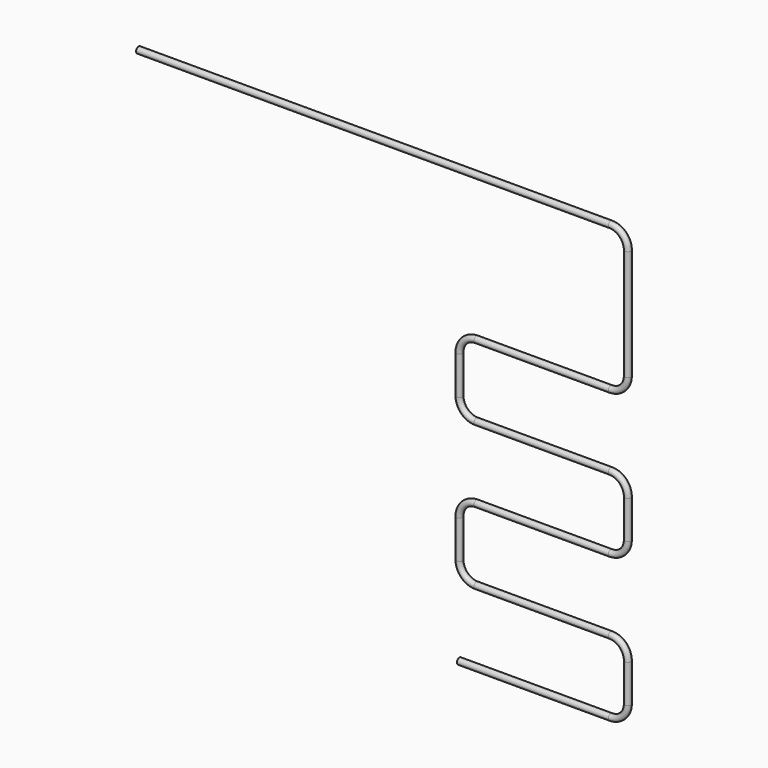
from build123d import *

# Parameters (mm, degrees)
F1_R = 3.675


with BuildPart() as f2:
    # F2: sweep along a path in F0
    with BuildLine(Plane.XZ) as f2_path:
        Line((0, 0), (554, 0))
        ThreePointArc((554, 0), (568.142136, -5.857864), (574, -20))
        Line((574, -20), (574, -150))
        ThreePointArc((574, -150), (568.142136, -164.142136), (554, -170))
        Line((554, -170), (396.4, -170))
        ThreePointArc((396.4, -170), (382.257864, -175.857864), (376.4, -190))
        Line((376.4, -190), (376.4, -234.7))
        ThreePointArc((376.4, -234.7), (382.257864, -248.842136), (396.4, -254.7))
        Line((396.4, -254.7), (554, -254.7))
        ThreePointArc((554, -254.7), (568.142136, -260.557864), (574, -274.7))
        Line((574, -274.7), (574, -319.4))
        ThreePointArc((574, -319.4), (568.142136, -333.542136), (554, -339.4))
        Line((554, -339.4), (396.4, -339.4))
        ThreePointArc((396.4, -339.4), (382.257864, -345.257864), (376.4, -359.4))
        Line((376.4, -359.4), (376.4, -404.1))
        ThreePointArc((376.4, -404.1), (382.257864, -418.242136), (396.4, -424.1))
        Line((396.4, -424.1), (554, -424.1))
        ThreePointArc((554, -424.1), (568.142136, -429.957864), (574, -444.1))
        Line((574, -444.1), (574, -488.8))
        ThreePointArc((574, -488.8), (568.142136, -502.942136), (554, -508.8))
        Line((554, -508.8), (376.4, -508.8))
    # F1 (on Right) → F2 (sweep)
    with BuildSketch(Plane.YZ):
        Circle(F1_R)
    sweep(path=f2_path.line)


solid = f2.part
